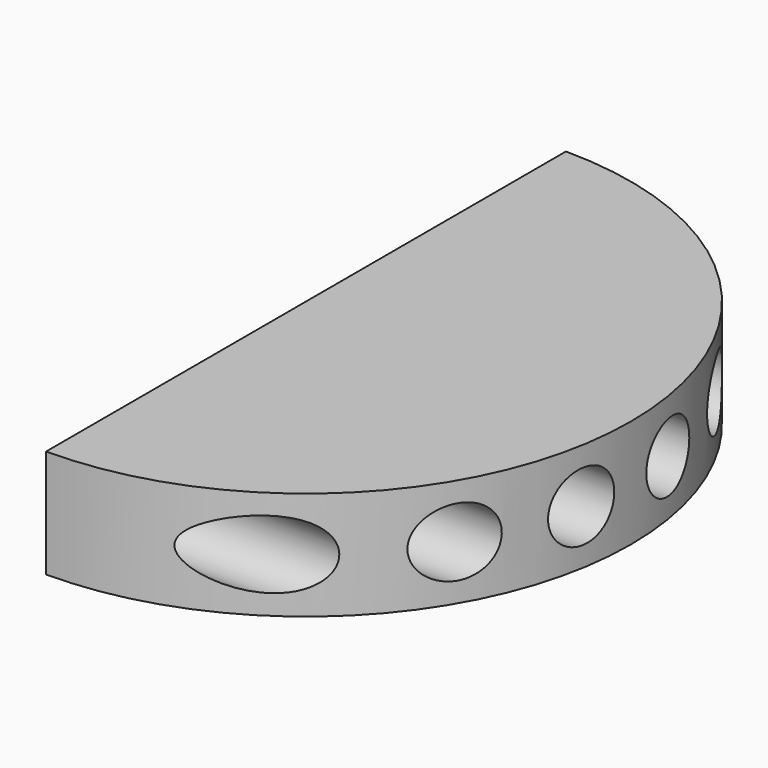
from build123d import *

# Parameters (mm, degrees)
F0_R     = 38.1
F1_DEPTH = 12.7
F2_W     = 42.448588
F2_H     = 91.320313
F3_DEPTH = 12.7
F4_R     = 4
F5_DEPTH = 38.101


with BuildPart() as f1:
    # F0 (on Top) → F1 (new body)
    with BuildSketch(Plane.XY):
        Circle(F0_R)
    extrude(amount=F1_DEPTH)

    # F2 (on face) → F3 (cut, through all)
    with BuildSketch(Plane.XY.offset(12.7)):
        with Locations((-21.224294, 1.396335)):
            Rectangle(F2_W, F2_H)
    extrude(amount=-F3_DEPTH, mode=Mode.SUBTRACT)

    # F4 (on face) → F5 (cut, through all)
    with BuildSketch(Plane(origin=(0, 0, 0), x_dir=(0, -1, 0), z_dir=(-1, 0, 0))):
        with Locations((-31.75, 6.35)):
            Circle(F4_R)
        with Locations((-19.05, 6.35)):
            Circle(F4_R)
        with Locations((-6.35, 6.35)):
            Circle(F4_R)
        with Locations((6.35, 6.35)):
            Circle(F4_R)
        with Locations((19.05, 6.35)):
            Circle(F4_R)
        with Locations((31.75, 6.35)):
            Circle(F4_R)
    extrude(amount=-F5_DEPTH, mode=Mode.SUBTRACT)


solid = f1.part
